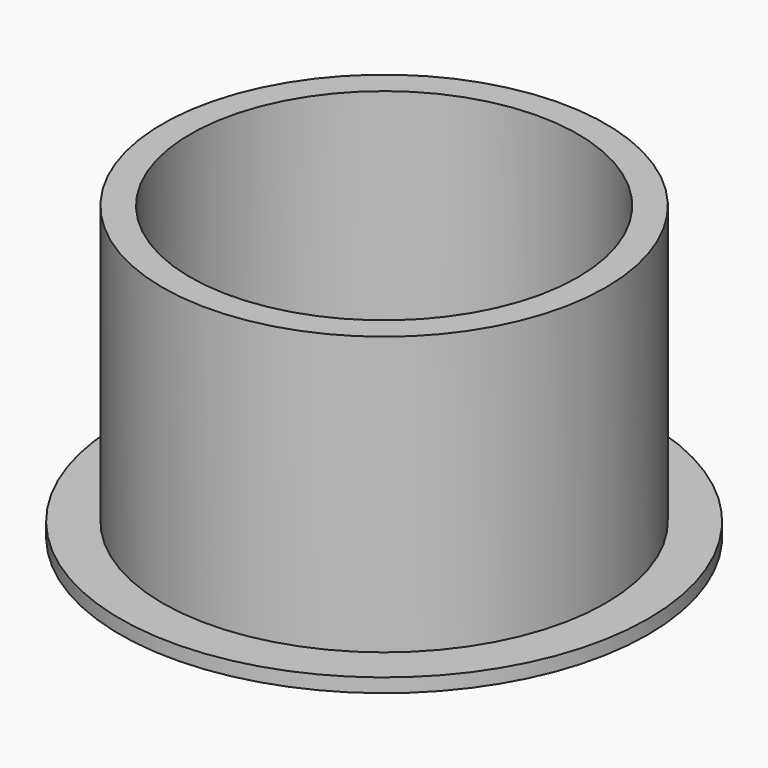
from build123d import *

# Parameters (mm, degrees)
SKETCH_R      = 19
SKETCH_R_2    = 12
PAD_DEPTH     = 1
SKETCH001_R   = 15.95
SKETCH001_R_2 = 13.95
PAD001_DEPTH  = 20
SKETCH002_R   = 13.95
SKETCH002_R_2 = 12
PAD002_DEPTH  = 3


with BuildPart() as part:
    # Sketch → Pad (new body)
    with BuildSketch(Plane.XY):
        Circle(SKETCH_R)
        Circle(SKETCH_R_2, mode=Mode.SUBTRACT)
    extrude(amount=PAD_DEPTH)

    # Sketch001 → Pad001 (new body)
    with BuildSketch(Plane.XY.offset(1)):
        Circle(SKETCH001_R)
        Circle(SKETCH001_R_2, mode=Mode.SUBTRACT)
    extrude(amount=PAD001_DEPTH)

    # Sketch002 → Pad002 (new body)
    with BuildSketch(Plane.XY.offset(1)):
        Circle(SKETCH002_R)
        Circle(SKETCH002_R_2, mode=Mode.SUBTRACT)
    extrude(amount=PAD002_DEPTH)


solid = part.part
